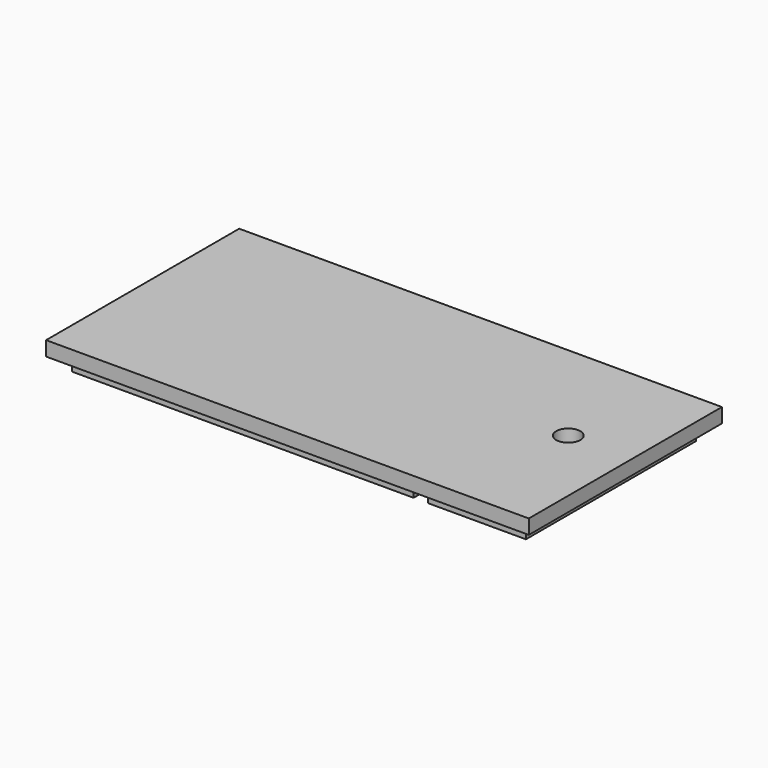
from build123d import *

# Parameters (mm, degrees)
F0_W     = 100
F0_H     = 50
F0_W_2   = 70.7229366664
F0_H_2   = 44
F0_W_3   = 20.2770633336
F1_DEPTH = 3
F2_DEPTH = 3
F3_R     = 2.5
F4_DEPTH = 3
F5_R     = 1.25
F6_DEPTH = 25


with BuildPart() as f1:
    # F0 (on Top) → F1 (new body)
    with BuildSketch(Plane.XY):
        with Locations((-50, 25)):
            Rectangle(F0_W, F0_H)
        with Locations((-61.6385316668, 25)):
            Rectangle(F0_W_2, F0_H_2, mode=Mode.SUBTRACT)
        with Locations((-13.1385316668, 25)):
            Rectangle(F0_W_3, F0_H_2, mode=Mode.SUBTRACT)
        with Locations((-61.6385316668, 25)):
            Rectangle(F0_W_2, F0_H_2)
        with Locations((-13.1385316668, 25)):
            Rectangle(F0_W_3, F0_H_2)
    extrude(amount=F1_DEPTH)

    # F0 (on Top) → F2 (join)
    with BuildSketch(Plane.XY):
        with Locations((-61.6385316668, 25)):
            Rectangle(F0_W_2, F0_H_2)
        with Locations((-13.1385316668, 25)):
            Rectangle(F0_W_3, F0_H_2)
    extrude(amount=-F2_DEPTH)

    # F3 (on face) → F4 (cut)
    with BuildSketch(Plane.XY.offset(3)):
        with Locations((-13.1529411301, 26.6577675939)):
            Circle(F3_R)
    extrude(amount=-F4_DEPTH, mode=Mode.SUBTRACT)

    # F5 (on face) → F6 (cut)
    with BuildSketch(Plane.XY):
        with Locations((-13.1529411301, 26.6577675939)):
            Circle(F5_R)
    extrude(amount=-F6_DEPTH, mode=Mode.SUBTRACT)


solid = f1.part
